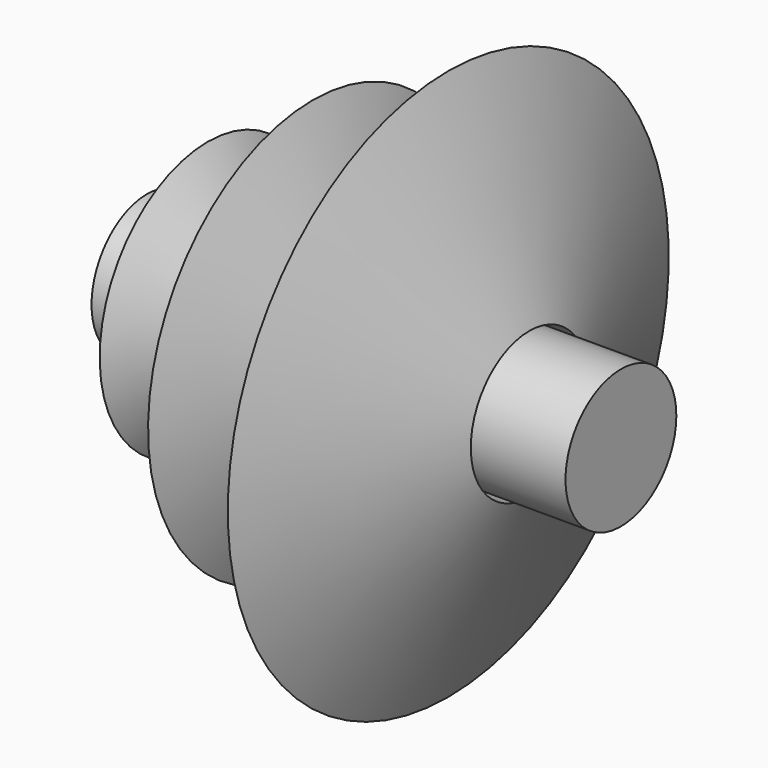
from build123d import *

# Parameters (mm, degrees)
F0_R     = 9.5
F1_DEPTH = 65


with BuildPart() as f1:
    # F0 (on Right) → F1 (new body)
    with BuildSketch(Plane.YZ):
        Circle(F0_R)
    extrude(amount=F1_DEPTH)


with BuildPart() as f3:
    # F2 (on Front) → F3 (revolve)
    with BuildSketch(Plane.XZ):
        Polygon((8.341442, 18.528147), (2.960477, 9.502011), (52.430645, 10.022749), (41.321557, 37.795477), (30.212464, 10.022749), (22.748545, 28.248601), (13.895988, 10.022749), align=None)
    revolve(axis=Axis((0, 0, 0), (-1, 0, 0)))


solid = Compound([f1.part, f3.part])
